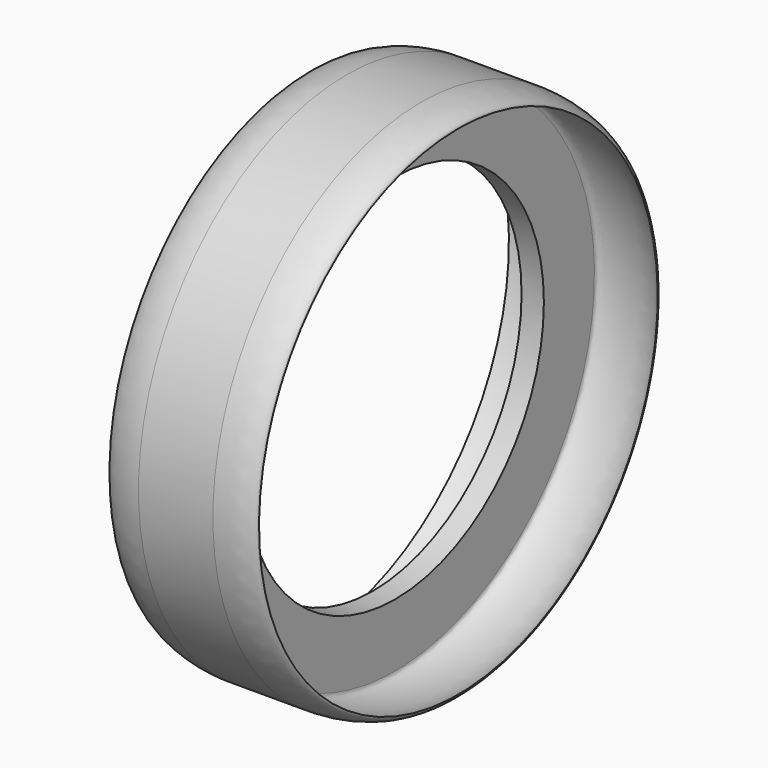
from build123d import *


with BuildPart() as f1:
    # F0 (on Front) → F1 (revolve)
    with BuildSketch(Plane.XZ):
        with BuildLine():
            Line((5, 35), (-5, 35))
            add(Edge.make_bspline(
                [(-10, 33.5), (-10, 34.25), (-7.5, 35), (-5, 35)],
                knots=[0, 0, 0, 0, 5.220153, 5.220153, 5.220153, 5.220153], degree=3))
            add(Edge.make_bspline(
                [(-10, 33.5), (-7.5, 35), (-1.5, 35), (-1.5, 33.5)],
                knots=[0, 0, 0, 0, 8.5, 8.5, 8.5, 8.5], degree=3))
            Line((-1.5, 33.5), (-1.5, 25))
            Line((-1.5, 25), (0, 25))
            Line((0, 25), (1.5, 25))
            Line((1.5, 25), (1.5, 33.5))
            add(Edge.make_bspline(
                [(10, 33.5), (7.5, 35), (1.5, 35), (1.5, 33.5)],
                knots=[0, 0, 0, 0, 8.5, 8.5, 8.5, 8.5], degree=3))
            add(Edge.make_bspline(
                [(5, 35), (7.5, 35), (10, 34.25), (10, 33.5)],
                knots=[0, 0, 0, 0, 5.220153, 5.220153, 5.220153, 5.220153], degree=3))
        make_face()
    revolve(axis=Axis((0, 0, 0), (1, 0, 0)))


solid = f1.part
